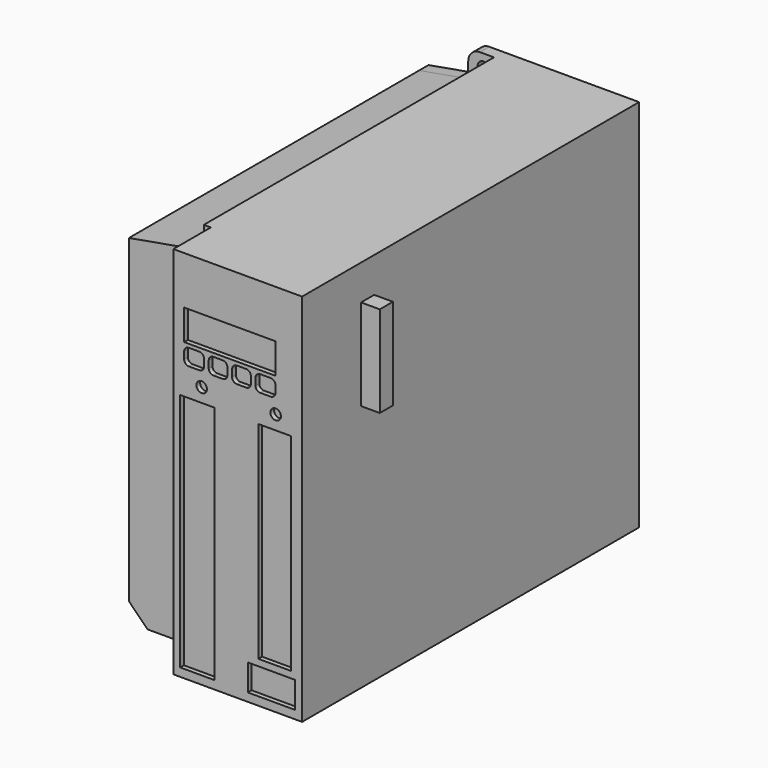
from build123d import *

# Parameters (mm, degrees)
F0_W      = 55
F0_H      = 160
F1_DEPTH  = 20
F2_W      = 55
F2_H      = 160
F3_DEPTH  = 155
F4_R      = 2.5
F5_DEPTH  = 5
F6_W      = 7
F6_H      = 39
F7_DEPTH  = 8
F8_W      = 14.6
F8_H      = 102.5
F8_W_2    = 14
F8_H_2    = 88.35
F8_W_3    = 20.1
F8_H_3    = 11.3
F8_W_4    = 39
F8_H_4    = 13
F8_R      = 2.25
F9_DEPTH  = 2
F10_W     = 40
F10_H     = 12
F10_H_2   = 8
F11_DEPTH = 35
F12_R     = 30
F13_DEPTH = 2


with BuildPart() as f1:
    # F0 (on Front) → F1 (new body)
    with BuildSketch(Plane.XZ):
        with Locations((27.5, 80)):
            Rectangle(F0_W, F0_H)
    extrude(amount=-F1_DEPTH)

    # F2 (on face) → F3 (join)
    with BuildSketch(Plane(origin=(0, 20, 0), x_dir=(-1, 0, 0), z_dir=(0, 1, 0))):
        with BuildLine():
            Line((3, 160), (0, 160))
            Line((0, 160), (0, 0))
            Line((0, 0), (27, 0))
            Line((27, 0), (35, 8))
            Line((35, 8), (35, 144.66))
            Line((35, 144.66), (7.131759, 149.573923))
            ThreePointArc((7.131759, 149.573923), (4.169778, 151.284023), (3, 154.497962))
            Line((3, 154.497962), (3, 160))
        make_face()
        with Locations((-27.5, 80)):
            Rectangle(F2_W, F2_H)
    extrude(amount=F3_DEPTH)

    # F4 (on face) → F5 (join)
    with BuildSketch(Plane(origin=(0, 175, 0), x_dir=(-1, 0, 0), z_dir=(0, 1, 0))):
        with BuildLine():
            Line((9, 160), (3, 160))
            Line((3, 160), (3, 154.497962))
            ThreePointArc((3, 154.497962), (4.169778, 151.284023), (7.131759, 149.573923))
            Line((7.131759, 149.573923), (14, 148.362867))
            Line((14, 148.362867), (14, 155))
            ThreePointArc((14, 155), (12.535534, 158.535534), (9, 160))
        make_face()
        with Locations((7.5, 154.5)):
            Circle(F4_R, mode=Mode.SUBTRACT)
        with BuildLine():
            Line((3, 160), (-55, 160))
            Line((-55, 160), (-55, 0))
            Line((-55, 0), (27, 0))
            Line((27, 0), (35, 8))
            Line((35, 8), (35, 144.66))
            Line((35, 144.66), (14, 148.362867))
            Line((14, 148.362867), (7.131759, 149.573923))
            ThreePointArc((7.131759, 149.573923), (4.169778, 151.284023), (3, 154.497962))
            Line((3, 154.497962), (3, 160))
        make_face()
        with Locations((7.5, 5)):
            Circle(F4_R, mode=Mode.SUBTRACT)
    extrude(amount=F5_DEPTH)

    # F6 (on face) → F7 (join)
    with BuildSketch(Plane.YZ.offset(55)):
        with Locations((35, 125.5)):
            Rectangle(F6_W, F6_H)
    extrude(amount=F7_DEPTH)

    # F8 (on face) → F9 (cut)
    with BuildSketch(Plane.XZ):
        with Locations((10.2, 54.8)):
            Rectangle(F8_W, F8_H)
        with Locations((43.3, 61.825)):
            Rectangle(F8_W_2, F8_H_2)
        with Locations((41.85, 9.2)):
            Rectangle(F8_W_3, F8_H_3)
        with Locations((24.1, 133)):
            Rectangle(F8_W_4, F8_H_4)
        with BuildLine():
            Line((11.1, 125), (6.6, 125))
            ThreePointArc((6.6, 125), (5.185786, 124.414214), (4.6, 123))
            Line((4.6, 123), (4.6, 120))
            ThreePointArc((4.6, 120), (5.185786, 118.585786), (6.6, 118))
            Line((6.6, 118), (11.1, 118))
            ThreePointArc((11.1, 118), (12.514214, 118.585786), (13.1, 120))
            Line((13.1, 120), (13.1, 123))
            ThreePointArc((13.1, 123), (12.514214, 124.414214), (11.1, 125))
        make_face()
        with BuildLine():
            ThreePointArc((15.1, 120), (15.685786, 118.585786), (17.1, 118))
            Line((17.1, 118), (21.1, 118))
            ThreePointArc((21.1, 118), (22.514214, 118.585786), (23.1, 120))
            Line((23.1, 120), (23.1, 123))
            ThreePointArc((23.1, 123), (22.514214, 124.414214), (21.1, 125))
            Line((21.1, 125), (17.1, 125))
            ThreePointArc((17.1, 125), (15.685786, 124.414214), (15.1, 123))
            Line((15.1, 123), (15.1, 120))
        make_face()
        with BuildLine():
            ThreePointArc((25.1, 120), (25.685786, 118.585786), (27.1, 118))
            Line((27.1, 118), (31.1, 118))
            ThreePointArc((31.1, 118), (32.514214, 118.585786), (33.1, 120))
            Line((33.1, 120), (33.1, 123))
            ThreePointArc((33.1, 123), (32.514214, 124.414214), (31.1, 125))
            Line((31.1, 125), (27.1, 125))
            ThreePointArc((27.1, 125), (25.685786, 124.414214), (25.1, 123))
            Line((25.1, 123), (25.1, 120))
        make_face()
        with BuildLine():
            ThreePointArc((35.1, 120), (35.685786, 118.585786), (37.1, 118))
            Line((37.1, 118), (41.6, 118))
            ThreePointArc((41.6, 118), (43.014214, 118.585786), (43.6, 120))
            Line((43.6, 120), (43.6, 123))
            ThreePointArc((43.6, 123), (43.014214, 124.414214), (41.6, 125))
            Line((41.6, 125), (37.1, 125))
            ThreePointArc((37.1, 125), (35.685786, 124.414214), (35.1, 123))
            Line((35.1, 123), (35.1, 120))
        make_face()
        with Locations((43.7, 112)):
            Circle(F8_R)
        with Locations((12.1, 112)):
            Circle(F8_R)
    extrude(amount=-F9_DEPTH, mode=Mode.SUBTRACT)

    # F10 (on face) → F11 (cut)
    with BuildSketch(Plane(origin=(-35, 0, 0), x_dir=(0, -1, 0), z_dir=(-1, 0, 0))):
        with Locations((-155, 14)):
            Rectangle(F10_W, F10_H)
        with Locations((-155, 4)):
            Rectangle(F10_W, F10_H_2)
    extrude(amount=-F11_DEPTH, mode=Mode.SUBTRACT)

    # F12 (on face) → F13 (cut)
    with BuildSketch(Plane(origin=(-35, 0, 0), x_dir=(0, -1, 0), z_dir=(-1, 0, 0))):
        with Locations((-100, 76.33)):
            Circle(F12_R)
    extrude(amount=-F13_DEPTH, mode=Mode.SUBTRACT)


solid = f1.part
